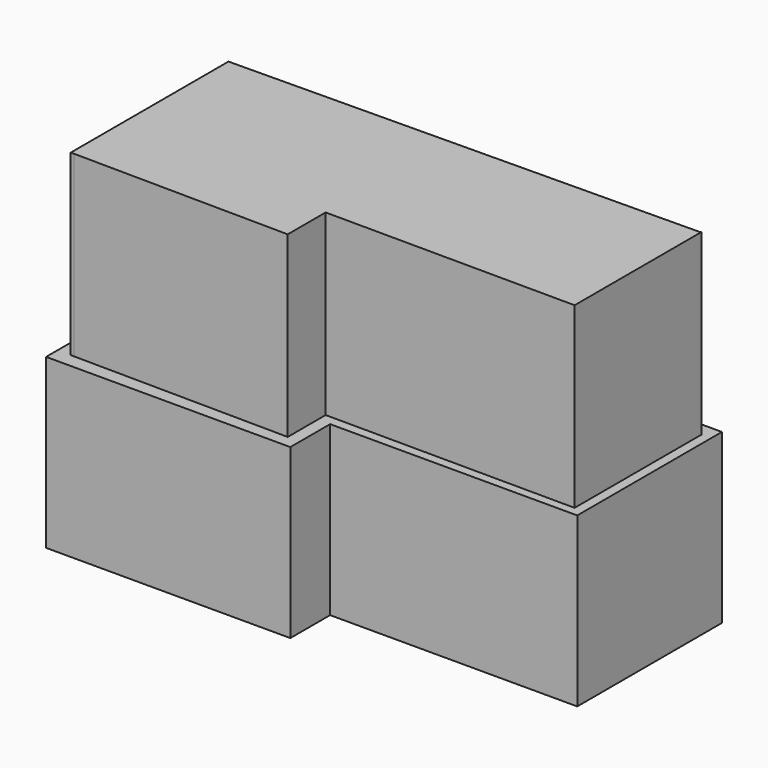
from build123d import *

# Parameters (mm, degrees)
F0_W     = 37.331247
F0_H     = 27.314525
F1_DEPTH = 25.4
F3_DEPTH = 26.944021


with BuildPart() as f1:
    # F0 (on Top) → F1 (new body)
    with BuildSketch(Plane.XY):
        Polygon((-5.064317, -18.266939), (-41.957065, -18.266939), (-41.957065, -53.090654), (-5.064317, -53.090654), (-5.064317, -45.581464), align=None)
        with Locations((13.601306, -31.924201)):
            Rectangle(F0_W, F0_H)
    extrude(amount=F1_DEPTH)

    # F2 (on face) → F3 (join)
    with BuildSketch(Plane.XY.offset(25.4)):
        Polygon((30.699346, -20.429492), (-39.95049, -21.168509), (-39.95049, -50.943833), (-39.442882, -50.934415), (-6.923128, -51.261608), (-6.923128, -44.098966), (30.813994, -44.266075), (30.813994, -20.261256), align=None)
    extrude(amount=F3_DEPTH)


solid = f1.part
